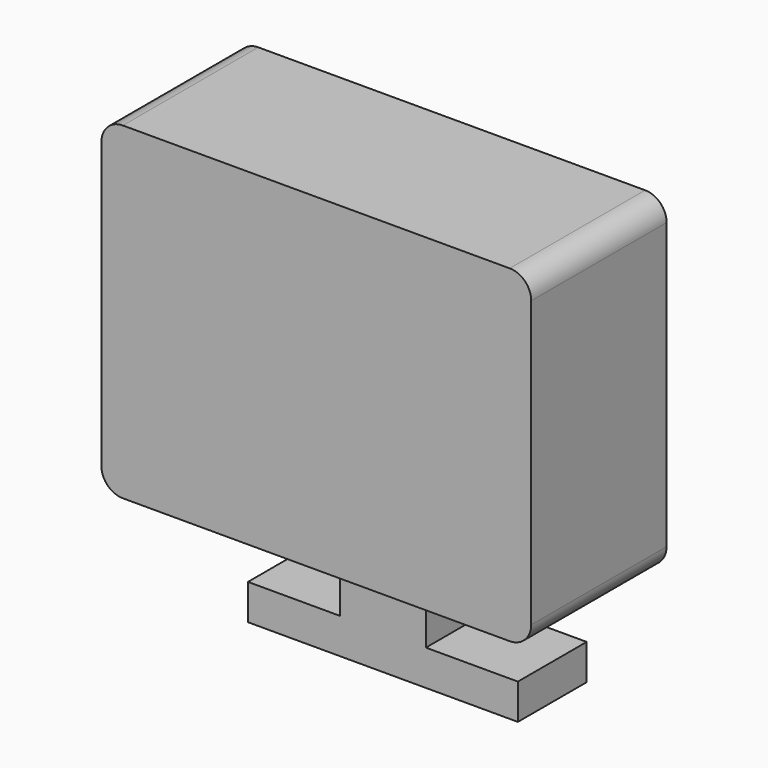
from build123d import *

# Parameters (mm, degrees)
F1_DEPTH = 50
F0_W     = 25.4
F0_H     = 26.123554
F2_DEPTH = 25.4


with BuildPart() as f1:
    # F0 (on Front) → F1 (new body)
    with BuildSketch(Plane.XZ):
        with BuildLine():
            Line((43.060917, 70.833095), (-71.239083, 70.833095))
            ThreePointArc((-71.239083, 70.833095), (-75.729211, 68.973223), (-77.589083, 64.483095))
            Line((-77.589083, 64.483095), (-77.589083, -19.790707))
            ThreePointArc((-77.589083, -19.790707), (-75.729211, -24.280835), (-71.239083, -26.140707))
            Line((-71.239083, -26.140707), (-26.789083, -26.140707))
            Line((-26.789083, -26.140707), (-1.389083, -26.140707))
            Line((-1.389083, -26.140707), (43.060917, -26.140707))
            ThreePointArc((43.060917, -26.140707), (47.551045, -24.280835), (49.410917, -19.790707))
            Line((49.410917, -19.790707), (49.410917, 64.483095))
            ThreePointArc((49.410917, 64.483095), (47.551045, 68.973223), (43.060917, 70.833095))
        make_face()
    extrude(amount=F1_DEPTH)

    # F0 (on Front) → F2 (join)
    with BuildSketch(Plane.XZ):
        with BuildLine():
            Line((43.060917, 70.833095), (-71.239083, 70.833095))
            ThreePointArc((-71.239083, 70.833095), (-75.729211, 68.973223), (-77.589083, 64.483095))
            Line((-77.589083, 64.483095), (-77.589083, -19.790707))
            ThreePointArc((-77.589083, -19.790707), (-75.729211, -24.280835), (-71.239083, -26.140707))
            Line((-71.239083, -26.140707), (-26.789083, -26.140707))
            Line((-26.789083, -26.140707), (-1.389083, -26.140707))
            Line((-1.389083, -26.140707), (43.060917, -26.140707))
            ThreePointArc((43.060917, -26.140707), (47.551045, -24.280835), (49.410917, -19.790707))
            Line((49.410917, -19.790707), (49.410917, 64.483095))
            ThreePointArc((49.410917, 64.483095), (47.551045, 68.973223), (43.060917, 70.833095))
        make_face()
        with Locations((-14.089083, -39.202484)):
            Rectangle(F0_W, F0_H)
        Polygon((-1.389083, -52.264261), (-26.789083, -52.264261), (-53.967083, -52.264261), (-53.967083, -62.753261), (25.788917, -62.753261), (25.788917, -52.264261), align=None)
    extrude(amount=F2_DEPTH)


solid = f1.part
